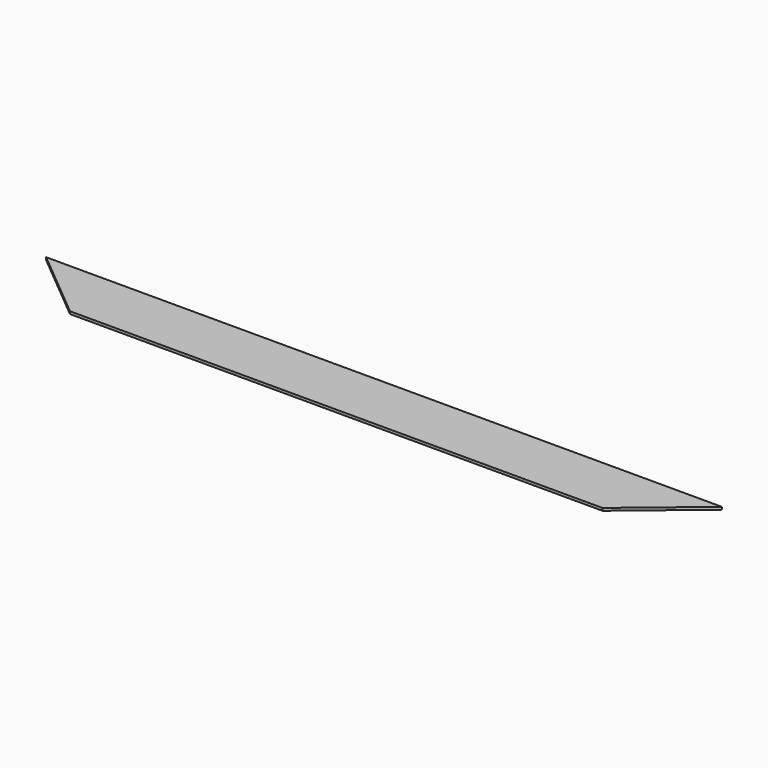
from build123d import *

# Parameters (mm, degrees)
F0_W     = 660.4
F0_H     = 74.041
F1_DEPTH = 3.175


with BuildPart() as f1:
    # F0 (on Top) → F1 (new body)
    with BuildSketch(Plane.XY):
        Rectangle(F0_W, F0_H)
        Polygon((419.1, 37.0205), (330.2, 37.0205), (330.2, -37.0205), align=None)
        Polygon((-330.2, -37.0205), (-330.2, 37.0205), (-419.1, 37.0205), align=None)
    extrude(amount=F1_DEPTH)


solid = f1.part
